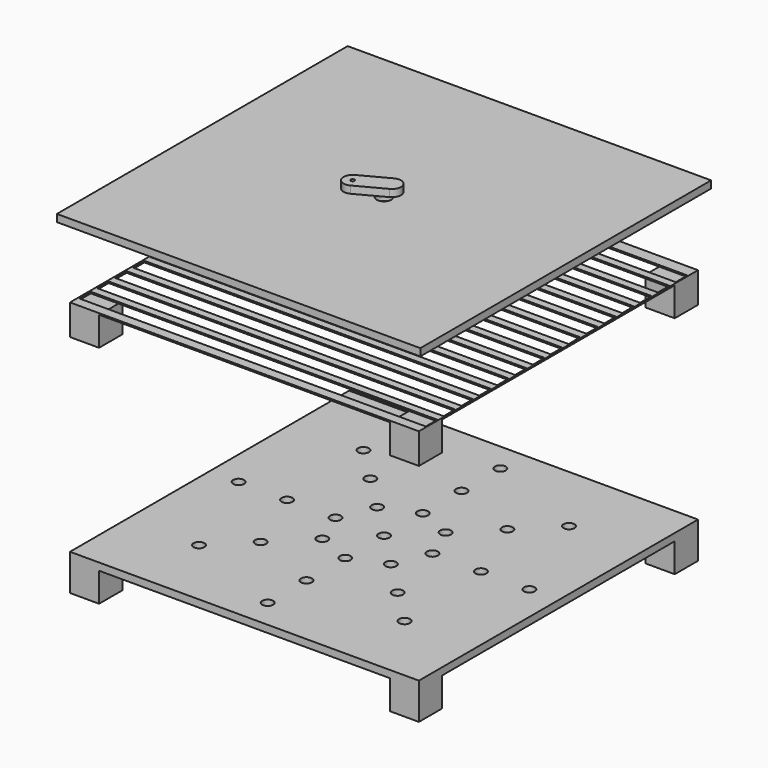
from build123d import *

# Parameters (mm, degrees)
SKETCH001_W                  = 480
SKETCH001_H                  = 480
PAD_DEPTH                    = 10
SKETCH002_R                  = 7.5
POCKET_DEPTH                 = 1367.793326
SKETCH002_LINEARPATTERN_2_R  = 7.5
POCKET_LINEARPATTERN_2_DEPTH = 1367.793326
SKETCH002_LINEARPATTERN_3_R  = 7.5
POCKET_LINEARPATTERN_3_DEPTH = 1367.793326
SKETCH002_LINEARPATTERN_4_R  = 7.5
POCKET_LINEARPATTERN_4_DEPTH = 1367.793326
POLARPATTERN_COUNT           = 8
SKETCH008_W                  = 40
SKETCH008_H                  = 40
PAD004_DEPTH                 = 40
POLARPATTERN001_COUNT        = 4
SKETCH003_W                  = 500
SKETCH003_H                  = 500
SKETCH003_R                  = 10
PAD001_DEPTH                 = 10
SKETCH004_R                  = 2.5
PAD002_DEPTH                 = 10
SKETCH005_W                  = 480
SKETCH005_H                  = 480
PAD003_DEPTH                 = 2
SKETCH006_W                  = 476.716095
SKETCH006_H                  = 20
POCKET002_DEPTH              = 2.001
LINEARPATTERN001_COUNT       = 15
LINEARPATTERN001_PITCH       = 30.714286
SKETCH009_W                  = 40
SKETCH009_H                  = 40
PAD005_DEPTH                 = 40
POLARPATTERN002_COUNT        = 4


with BuildPart() as obj1:
    # Sketch001 → Pad (new body)
    with BuildSketch(Plane.XY.offset(100)):
        Rectangle(SKETCH001_W, SKETCH001_H)
    extrude(amount=-PAD_DEPTH)

    # Sketch002 → Pocket (cut, through all)
    with BuildSketch(Plane.XY.offset(100)):
        Circle(SKETCH002_R)
    pocket = extrude(amount=-POCKET_DEPTH, mode=Mode.SUBTRACT)

    # Sketch002 LinearPattern 2 → Pocket LinearPattern 2 (cut, through all)
    with BuildSketch(Plane(origin=(66.666667, 0, 100), x_dir=(1, 0, 0), z_dir=(0, 0, 1))):
        Circle(SKETCH002_LINEARPATTERN_2_R)
    pocket_linearpattern_2 = extrude(amount=-POCKET_LINEARPATTERN_2_DEPTH, mode=Mode.SUBTRACT)

    # Sketch002 LinearPattern 3 → Pocket LinearPattern 3 (cut, through all)
    with BuildSketch(Plane(origin=(133.333333, 0, 100), x_dir=(1, 0, 0), z_dir=(0, 0, 1))):
        Circle(SKETCH002_LINEARPATTERN_3_R)
    pocket_linearpattern_3 = extrude(amount=-POCKET_LINEARPATTERN_3_DEPTH, mode=Mode.SUBTRACT)

    # Sketch002 LinearPattern 4 → Pocket LinearPattern 4 (cut, through all)
    with BuildSketch(Plane(origin=(200, 0, 100), x_dir=(1, 0, 0), z_dir=(0, 0, 1))):
        Circle(SKETCH002_LINEARPATTERN_4_R)
    pocket_linearpattern_4 = extrude(amount=-POCKET_LINEARPATTERN_4_DEPTH, mode=Mode.SUBTRACT)

    # PolarPattern: Pocket, Pocket LinearPattern 2, Pocket LinearPattern 3, Pocket LinearPattern 4 ×8 about axis
    polarpattern_axis = Axis((0, 0, 100), (0, 0, 1))
    for i in range(1, POLARPATTERN_COUNT):
        add(pocket.rotate(polarpattern_axis, i * 360 / POLARPATTERN_COUNT), mode=Mode.SUBTRACT)
        add(pocket_linearpattern_2.rotate(polarpattern_axis, i * 360 / POLARPATTERN_COUNT), mode=Mode.SUBTRACT)
        add(pocket_linearpattern_3.rotate(polarpattern_axis, i * 360 / POLARPATTERN_COUNT), mode=Mode.SUBTRACT)
        add(pocket_linearpattern_4.rotate(polarpattern_axis, i * 360 / POLARPATTERN_COUNT), mode=Mode.SUBTRACT)

    # Sketch008 → Pad004 (join)
    with BuildSketch(Plane.XY.offset(50)):
        with Locations((-220, 220)):
            Rectangle(SKETCH008_W, SKETCH008_H)
    pad004 = extrude(amount=PAD004_DEPTH)

    # PolarPattern001: Pad004 ×4 about axis
    polarpattern001_axis = Axis((0, 0, 50), (0, 0, 1))
    for i in range(1, POLARPATTERN001_COUNT):
        add(pad004.rotate(polarpattern001_axis, i * 360 / POLARPATTERN001_COUNT))


with BuildPart() as obj2:
    # Sketch003 → Pad001 (new body)
    with BuildSketch(Plane.XY):
        Rectangle(SKETCH003_W, SKETCH003_H)
        Circle(SKETCH003_R, mode=Mode.SUBTRACT)
    extrude(amount=PAD001_DEPTH)

    # Sketch004 → Pad002 (join)
    with BuildSketch(Plane(origin=(-10, 10, 10), x_dir=(0.882948, 0.469472, 0), z_dir=(0, 0, 1))):
        with BuildLine():
            ThreePointArc((-32.645676, 12.5), (-45.145676, 0), (-32.645676, -12.5))
            Line((-32.645676, -12.5), (10.154856, -12.5))
            ThreePointArc((10.154856, -12.5), (22.654856, 0), (10.154856, 12.5))
            Line((-32.645676, 12.5), (10.154856, 12.5))
        make_face()
        with Locations((-32.645676, 0)):
            Circle(SKETCH004_R, mode=Mode.SUBTRACT)
    extrude(amount=PAD002_DEPTH)


with BuildPart() as obj2_1:
    # Body002 placement: moved
    add(obj2.part.moved(Location((0, 0, 500))))


with BuildPart() as grille:
    # Sketch005 → Pad003 (new body)
    with BuildSketch(Plane.XY):
        Rectangle(SKETCH005_W, SKETCH005_H)
    extrude(amount=PAD003_DEPTH)

    # Sketch006 → Pocket002 (cut, through all)
    with BuildSketch(Plane.XY):
        with Locations((0.383927, 213.337334)):
            Rectangle(SKETCH006_W, SKETCH006_H)
    pocket002 = extrude(amount=POCKET002_DEPTH, mode=Mode.SUBTRACT)

    # LinearPattern001: Pocket002 ×15
    with Locations(*[(0, -i * LINEARPATTERN001_PITCH, 0) for i in range(1, LINEARPATTERN001_COUNT)]):
        add(pocket002, mode=Mode.SUBTRACT)

    # Sketch009 → Pad005 (join)
    with BuildSketch(Plane.XY):
        with Locations((-220, 220)):
            Rectangle(SKETCH009_W, SKETCH009_H)
    pad005 = extrude(amount=-PAD005_DEPTH)

    # PolarPattern002: Pad005 ×4 about axis
    polarpattern002_axis = Axis((0, 0, 0), (0, 0, 1))
    for i in range(1, POLARPATTERN002_COUNT):
        add(pad005.rotate(polarpattern002_axis, i * 360 / POLARPATTERN002_COUNT))


with BuildPart() as grille_1:
    # Body003 placement: moved
    add(grille.part.moved(Location((0, 0, 400))))


solid = Compound([obj1.part, obj2_1.part, grille_1.part])
